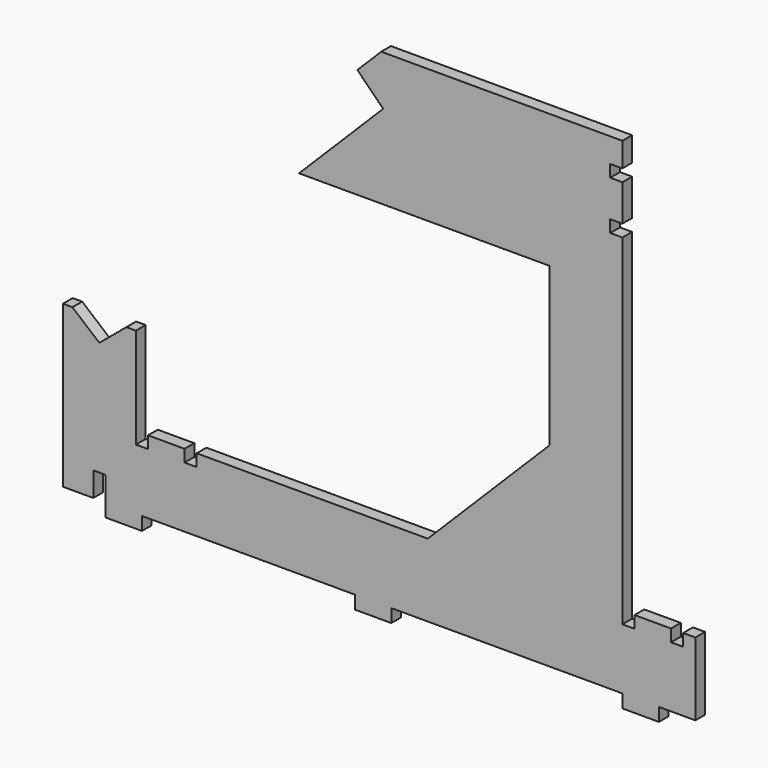
from build123d import *

# Parameters (mm, degrees)
F0_W     = 19.05
F0_H     = 6.901241
F1_DEPTH = 6.35


with BuildPart() as f1:
    # F0 (on Front) → F1 (new body)
    with BuildSketch(Plane.XZ):
        Polygon((-82.641583, -23.385886), (-82.641583, -105.935886), (-146.141583, -169.435886), (-266.791583, -169.435886), (-266.791583, -175.785886), (-273.141583, -175.785886), (-273.141583, -169.435886), (-292.191583, -169.435886), (-292.191583, -175.785886), (-298.541583, -175.785886), (-298.541583, -123.398386), (-303.509617, -123.398386), (-317.591583, -135.214559), (-331.673549, -123.398386), (-336.641583, -123.398386), (-336.641583, -207.535886), (-320.766583, -207.535886), (-320.766583, -194.835886), (-314.416583, -194.835886), (-314.416583, -207.535886), (-295.366583, -207.535886), (-184.241583, -207.535886), (-165.191583, -207.535886), (-44.541583, -207.535886), (-25.491583, -207.535886), (-6.441583, -207.535886), (-6.441583, -169.435886), (-12.791583, -169.435886), (-12.791583, -175.785886), (-19.141583, -175.785886), (-19.141583, -169.435886), (-38.191583, -169.435886), (-38.191583, -175.785886), (-44.541583, -175.785886), (-44.541583, 2.014114), (-50.891583, 2.014114), (-50.891583, 8.364114), (-44.541583, 8.364114), (-44.541583, 27.414114), (-50.891583, 27.414114), (-50.891583, 33.764114), (-44.541583, 33.764114), (-44.541583, 46.464114), (-170.452095, 46.464114), (-182.887741, 34.028468), (-169.417357, 20.558084), (-213.361327, -23.385886), align=None)
        with Locations((-304.891583, -210.986506)):
            Rectangle(F0_W, F0_H)
        with Locations((-174.716583, -210.986506)):
            Rectangle(F0_W, F0_H)
        with Locations((-35.016583, -210.986506)):
            Rectangle(F0_W, F0_H)
    extrude(amount=F1_DEPTH)


solid = f1.part
